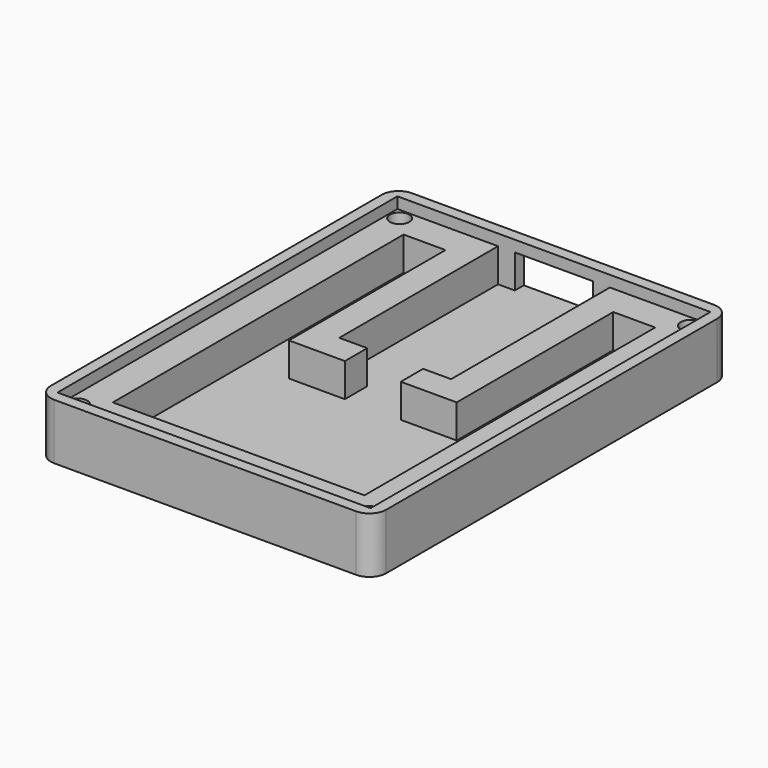
from build123d import *

# Parameters (mm, degrees)
SKETCH_W        = 60
SKETCH_H        = 80
PAD_DEPTH       = 10
SKETCH001_W     = 56
SKETCH001_H     = 76
POCKET_DEPTH    = 2
SKETCH002_W     = 20
SKETCH002_H     = 35.5
SKETCH002_W_2   = 45
SKETCH002_H_2   = 30
SKETCH002_W_3   = 7.5
SKETCH002_H_3   = 35
POCKET001_DEPTH = 6
SKETCH003_W     = 14
SKETCH003_H     = 6
POCKET002_DEPTH = 5
FILLET_R        = 3
SKETCH004_R     = 1.75
POCKET003_DEPTH = 10
POCKET004_DEPTH = 6
SKETCH013_W     = 10
SKETCH013_H     = 10
POCKET011_DEPTH = 6


with BuildPart() as part:
    # Sketch → Pad (new body)
    with BuildSketch(Plane.XY):
        Rectangle(SKETCH_W, SKETCH_H)
    extrude(amount=PAD_DEPTH)

    # Sketch001 (on Face6 of Pad) → Pocket (cut)
    with BuildSketch(Plane.XY.offset(10)):
        Rectangle(SKETCH001_W, SKETCH001_H)
    extrude(amount=-POCKET_DEPTH, mode=Mode.SUBTRACT)

    # Sketch002 (on Face11 of Pocket) → Pocket001 (cut)
    with BuildSketch(Plane.XY.offset(8)):
        with Locations((0, 20.25)):
            Rectangle(SKETCH002_W, SKETCH002_H)
        with Locations((0, -17.5)):
            Rectangle(SKETCH002_W_2, SKETCH002_H_2)
        with Locations((-18.75, 15)):
            Rectangle(SKETCH002_W_3, SKETCH002_H_3)
        with Locations((18.75, 15)):
            Rectangle(SKETCH002_W_3, SKETCH002_H_3)
    extrude(amount=-POCKET001_DEPTH, mode=Mode.SUBTRACT)

    # Sketch003 (on Face24 of Pocket001) → Pocket002 (cut)
    with BuildSketch(Plane.XZ.offset(-38)):
        with Locations((0, 5)):
            Rectangle(SKETCH003_W, SKETCH003_H)
    extrude(amount=-POCKET002_DEPTH, mode=Mode.SUBTRACT)

    # Fillet
    fillet_edges = [part.edges().sort_by_distance(p)[0] for p in [
        (-30, -40, 5),
        (-30, 40, 5),
        (30, -40, 5),
        (30, 40, 5),
    ]]
    fillet(fillet_edges, radius=FILLET_R)

    # Sketch004 (on Face19 of Fillet) → Pocket003 (cut)
    with BuildSketch(Plane.XY.offset(8)):
        with Locations((26, -36)):
            Circle(SKETCH004_R)
        with Locations((-26, -36)):
            Circle(SKETCH004_R)
        with Locations((-26, 36)):
            Circle(SKETCH004_R)
        with Locations((26, 36)):
            Circle(SKETCH004_R)
    extrude(amount=-POCKET003_DEPTH, mode=Mode.SUBTRACT)

    # Sketch005 (on Face2 of Pocket003) → Pocket004 (cut)
    with BuildSketch(Plane(origin=(0, 0, 0), x_dir=(1, 0, 0), z_dir=(0, 0, -1))):
        Polygon((-24.375, 33.185417), (-22.75, 36), (-24.375, 38.814583), (-27.625, 38.814583), (-29.25, 36), (-27.625, 33.185417), align=None)
        Polygon((27.625, 33.185417), (29.25, 36), (27.625, 38.814583), (24.375, 38.814583), (22.75, 36), (24.375, 33.185417), align=None)
        Polygon((-22.75, -36), (-24.375, -33.185417), (-27.625, -33.185417), (-29.25, -36), (-27.625, -38.814583), (-24.375, -38.814583), align=None)
        Polygon((29.25, -36), (27.625, -33.185417), (24.375, -33.185417), (22.75, -36), (24.375, -38.814583), (27.625, -38.814583), align=None)
    extrude(amount=-POCKET004_DEPTH, mode=Mode.SUBTRACT)

    # Sketch013 (on Face47 of Pocket004) → Pocket011 (cut)
    with BuildSketch(Plane.XY.offset(8)):
        Rectangle(SKETCH013_W, SKETCH013_H)
    extrude(amount=-POCKET011_DEPTH, mode=Mode.SUBTRACT)


solid = part.part
